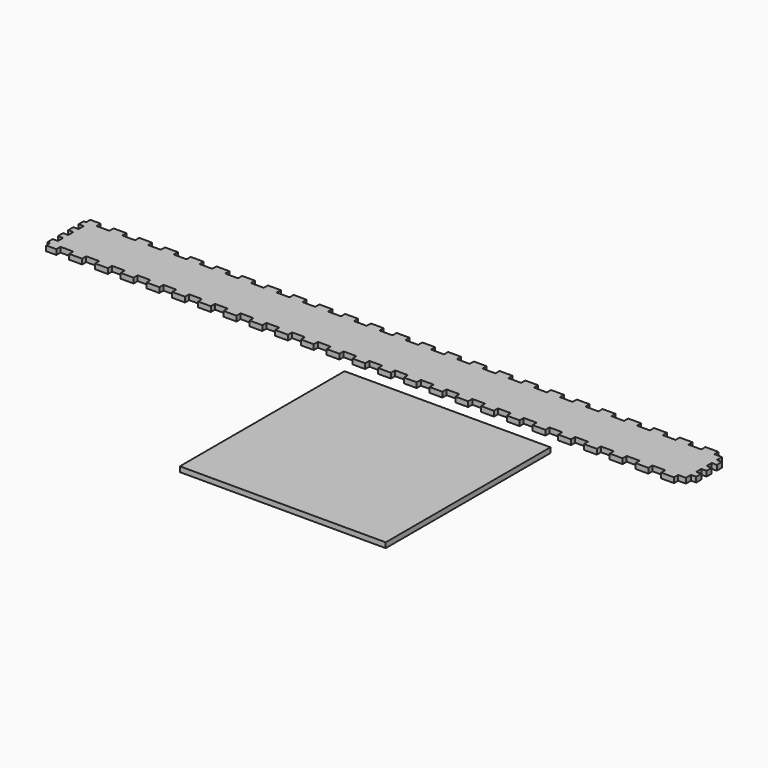
from build123d import *

# Parameters (mm, degrees)
F0_W     = 635
F0_H     = 54.61
F1_DEPTH = 5.08
F2_W     = 5.08
F2_H     = 6.35
F2_W_2   = 12.7
F2_H_2   = 5.08
F2_W_3   = 2.54
F3_DEPTH = 25.4
F4_W     = 203.2
F4_H     = 203.2
F5_DEPTH = 5.08


with BuildPart() as f1:
    # F0 (on Top) → F1 (new body)
    with BuildSketch(Plane.XY):
        with Locations((-223.040638, 2.600924)):
            Rectangle(F0_W, F0_H)
    extrude(amount=F1_DEPTH)

    # F2 (on face) → F3 (cut)
    with BuildSketch(Plane.XY.offset(5.08)):
        with Locations((-538.000638, 15.300924)):
            Rectangle(F2_W, F2_H)
        with Locations((-538.000638, 2.600924)):
            Rectangle(F2_W, F2_H)
        with Locations((-538.000638, -10.099076)):
            Rectangle(F2_W, F2_H)
        with Locations((-521.490638, 27.365924)):
            Rectangle(F2_W_2, F2_H_2)
        with Locations((-496.090638, 27.365924)):
            Rectangle(F2_W_2, F2_H_2)
        with Locations((-521.490638, -22.164076)):
            Rectangle(F2_W_2, F2_H_2)
        with Locations((-496.090638, -22.164076)):
            Rectangle(F2_W_2, F2_H_2)
        with Locations((-470.690638, 27.365924)):
            Rectangle(F2_W_2, F2_H_2)
        with Locations((-470.690638, -22.164076)):
            Rectangle(F2_W_2, F2_H_2)
        with Locations((-445.290638, -22.164076)):
            Rectangle(F2_W_2, F2_H_2)
        with Locations((-445.290638, 27.365924)):
            Rectangle(F2_W_2, F2_H_2)
        with Locations((-419.890638, 27.365924)):
            Rectangle(F2_W_2, F2_H_2)
        with Locations((-419.890638, -22.164076)):
            Rectangle(F2_W_2, F2_H_2)
        with Locations((-394.490638, -22.164076)):
            Rectangle(F2_W_2, F2_H_2)
        with Locations((-394.490638, 27.365924)):
            Rectangle(F2_W_2, F2_H_2)
        with Locations((-369.090638, 27.365924)):
            Rectangle(F2_W_2, F2_H_2)
        with Locations((-369.090638, -22.164076)):
            Rectangle(F2_W_2, F2_H_2)
        with Locations((-343.690638, -22.164076)):
            Rectangle(F2_W_2, F2_H_2)
        with Locations((-343.690638, 27.365924)):
            Rectangle(F2_W_2, F2_H_2)
        with Locations((-318.290638, 27.365924)):
            Rectangle(F2_W_2, F2_H_2)
        with Locations((-318.290638, -22.164076)):
            Rectangle(F2_W_2, F2_H_2)
        with Locations((-292.890638, -22.164076)):
            Rectangle(F2_W_2, F2_H_2)
        with Locations((-292.890638, 27.365924)):
            Rectangle(F2_W_2, F2_H_2)
        with Locations((-267.490638, 27.365924)):
            Rectangle(F2_W_2, F2_H_2)
        with Locations((-267.490638, -22.164076)):
            Rectangle(F2_W_2, F2_H_2)
        with Locations((-242.090638, -22.164076)):
            Rectangle(F2_W_2, F2_H_2)
        with Locations((-242.090638, 27.365924)):
            Rectangle(F2_W_2, F2_H_2)
        with Locations((-216.690638, 27.365924)):
            Rectangle(F2_W_2, F2_H_2)
        with Locations((-216.690638, -22.164076)):
            Rectangle(F2_W_2, F2_H_2)
        with Locations((-191.290638, 27.365924)):
            Rectangle(F2_W_2, F2_H_2)
        with Locations((-191.290638, -22.164076)):
            Rectangle(F2_W_2, F2_H_2)
        with Locations((-165.890638, -22.164076)):
            Rectangle(F2_W_2, F2_H_2)
        with Locations((-165.890638, 27.365924)):
            Rectangle(F2_W_2, F2_H_2)
        with Locations((-140.490638, 27.365924)):
            Rectangle(F2_W_2, F2_H_2)
        with Locations((-140.490638, -22.164076)):
            Rectangle(F2_W_2, F2_H_2)
        with Locations((-115.090638, -22.164076)):
            Rectangle(F2_W_2, F2_H_2)
        with Locations((-115.090638, 27.365924)):
            Rectangle(F2_W_2, F2_H_2)
        with Locations((-89.690638, -22.164076)):
            Rectangle(F2_W_2, F2_H_2)
        with Locations((-89.690638, 27.365924)):
            Rectangle(F2_W_2, F2_H_2)
        with Locations((-64.290638, -22.164076)):
            Rectangle(F2_W_2, F2_H_2)
        with Locations((-64.290638, 27.365924)):
            Rectangle(F2_W_2, F2_H_2)
        with Locations((-38.890638, 27.365924)):
            Rectangle(F2_W_2, F2_H_2)
        with Locations((-38.890638, -22.164076)):
            Rectangle(F2_W_2, F2_H_2)
        with Locations((-13.490638, -22.164076)):
            Rectangle(F2_W_2, F2_H_2)
        with Locations((-13.490638, 27.365924)):
            Rectangle(F2_W_2, F2_H_2)
        with Locations((11.909362, 27.365924)):
            Rectangle(F2_W_2, F2_H_2)
        with Locations((11.909362, -22.164076)):
            Rectangle(F2_W_2, F2_H_2)
        with Locations((37.309362, -22.164076)):
            Rectangle(F2_W_2, F2_H_2)
        with Locations((37.309362, 27.365924)):
            Rectangle(F2_W_2, F2_H_2)
        with Locations((62.709362, 27.365924)):
            Rectangle(F2_W_2, F2_H_2)
        with Locations((62.709362, -22.164076)):
            Rectangle(F2_W_2, F2_H_2)
        Polygon((94.459362, -24.704076), (94.459362, -19.624076), (89.379362, -19.624076), (81.759362, -19.624076), (81.759362, -24.704076), align=None)
        with Locations((91.919362, -16.449076)):
            Rectangle(F2_W, F2_H)
        with Locations((91.919362, -3.749076)):
            Rectangle(F2_W, F2_H)
        with Locations((91.919362, 8.950924)):
            Rectangle(F2_W, F2_H)
        with Locations((91.919362, 21.650924)):
            Rectangle(F2_W, F2_H)
        Polygon((94.459362, 29.905924), (81.759362, 29.905924), (81.759362, 24.825924), (89.379362, 24.825924), (94.459362, 24.825924), align=None)
        with Locations((-539.270638, 27.365924)):
            Rectangle(F2_W_3, F2_H_2)
        with Locations((-539.270638, -22.164076)):
            Rectangle(F2_W_3, F2_H_2)
    extrude(amount=-F3_DEPTH, mode=Mode.SUBTRACT)


with BuildPart() as f5:
    # F4 (on Top) → F5 (new body)
    with BuildSketch(Plane.XY):
        with Locations((-125.582427, -146.624052)):
            Rectangle(F4_W, F4_H)
    extrude(amount=F5_DEPTH)


solid = Compound([f1.part, f5.part])
